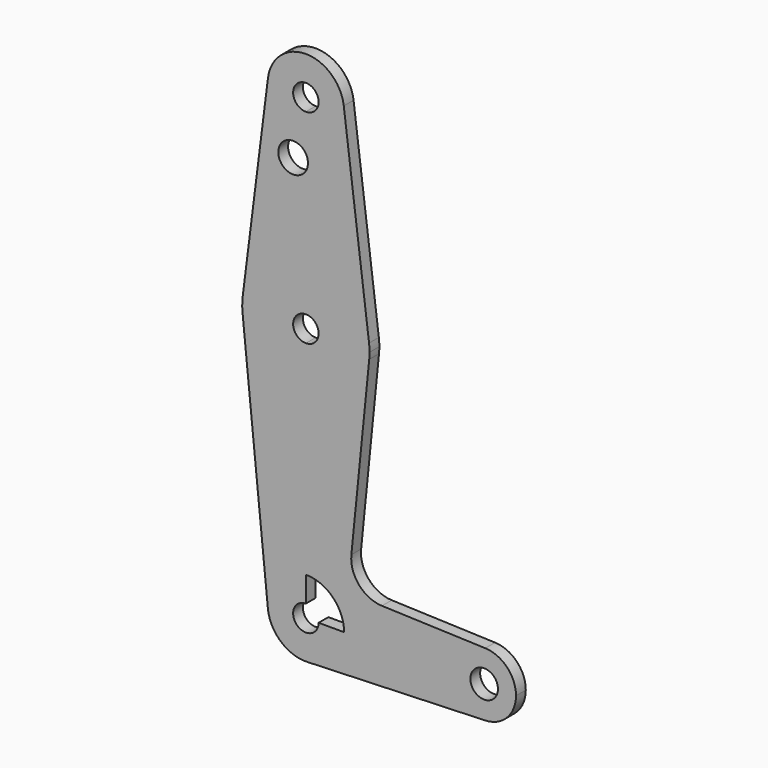
from build123d import *

# Parameters (mm, degrees)
F1_DEPTH = 3.048


with BuildPart() as f1:
    # F0 (on Front) → F1 (new body)
    with BuildSketch(Plane.XZ):
        with BuildLine():
            ThreePointArc((3.175, 0), (-2.245064, -2.245064), (0, 3.175))
            Line((0, 3.175), (0, 9.525))
            ThreePointArc((0, 9.525), (-7.063929, 6.389564), (-9.477255, -0.9525))
            ThreePointArc((-9.477255, -0.9525), (-6.262383, -7.17692), (0.340179, -9.518923))
            ThreePointArc((0.340179, -9.518923), (6.854408, -6.613827), (9.525, 0))
            Line((9.525, 0), (3.175, 0))
        make_face()
        with BuildLine():
            ThreePointArc((-9.477255, -0.9525), (-7.063929, 6.389564), (0, 9.525))
            Line((0, 9.525), (0, 47.625))
            ThreePointArc((0, 47.625), (-10.649274, 51.726785), (-15.795426, 61.9125))
            Line((-15.795426, 61.9125), (-9.477255, -0.9525))
        make_face()
        with BuildLine():
            Line((0, 47.625), (0, 9.525))
            ThreePointArc((0, 9.525), (6.735192, 6.735192), (9.525, 0))
            Line((9.525, 0), (36.5125, 0))
            ThreePointArc((36.5125, 0), (38.938477, 5.712007), (44.733482, 7.932436))
            Line((44.733482, 7.932436), (18.9676, 8.853234))
            ThreePointArc((18.9676, 8.853234), (13.2612, 11.571359), (11.341187, 17.593382))
            Line((11.341187, 17.593382), (15.795426, 61.9125))
            ThreePointArc((15.795426, 61.9125), (10.649274, 51.726785), (0, 47.625))
        make_face()
        with BuildLine():
            Line((36.5125, 0), (9.525, 0))
            ThreePointArc((9.525, 0), (6.854408, -6.613827), (0.340179, -9.518923))
            Line((0.340179, -9.518923), (44.733482, -7.932436))
            ThreePointArc((44.733482, -7.932436), (38.938477, -5.712007), (36.5125, 0))
        make_face()
        with BuildLine():
            ThreePointArc((-15.795426, 61.9125), (-10.649274, 51.726785), (0, 47.625))
            Line((0, 47.625), (0, 60.325))
            ThreePointArc((0, 60.325), (-3.175, 63.5), (0, 66.675))
            Line((0, 66.675), (0, 79.375))
            ThreePointArc((0, 79.375), (-10.500326, 75.40625), (-15.750488, 65.484375))
            ThreePointArc((-15.750488, 65.484375), (-15.873744, 63.699705), (-15.795426, 61.9125))
        make_face()
        with BuildLine():
            Line((0, 60.325), (0, 47.625))
            ThreePointArc((0, 47.625), (10.649274, 51.726785), (15.795426, 61.9125))
            ThreePointArc((15.795426, 61.9125), (15.855094, 62.705253), (15.875, 63.5))
            ThreePointArc((15.875, 63.5), (15.843841, 64.494139), (15.750488, 65.484375))
            ThreePointArc((15.750488, 65.484375), (10.500326, 75.40625), (0, 79.375))
            Line((0, 79.375), (0, 66.675))
            ThreePointArc((0, 66.675), (2.245064, 65.745064), (3.175, 63.5))
            ThreePointArc((3.175, 63.5), (2.245064, 61.254936), (0, 60.325))
        make_face()
        with BuildLine():
            ThreePointArc((47.889899, 0), (44.45, 3.439899), (41.010101, 0))
            ThreePointArc((41.010101, 0), (44.45, -3.439899), (47.889899, 0))
        make_face()
        with BuildLine():
            ThreePointArc((44.733482, 7.932436), (38.938477, 5.712007), (36.5125, 0))
            ThreePointArc((36.5125, 0), (38.938477, -5.712007), (44.733482, -7.932436))
            ThreePointArc((44.733482, -7.932436), (50.162007, -5.511523), (52.3875, 0))
            ThreePointArc((52.3875, 0), (50.162007, 5.511523), (44.733482, 7.932436))
        make_face()
        with BuildLine():
            ThreePointArc((47.889899, 0), (44.45, -3.439899), (41.010101, 0))
            ThreePointArc((41.010101, 0), (44.45, 3.439899), (47.889899, 0))
        make_face(mode=Mode.SUBTRACT)
        with BuildLine():
            Line((-9.450293, 115.490625), (-15.750488, 65.484375))
            ThreePointArc((-15.750488, 65.484375), (-10.500326, 75.40625), (0, 79.375))
            Line((0, 79.375), (0, 98.135231))
            ThreePointArc((0, 98.135231), (-6.869943, 100.0252), (0, 101.915169))
            Line((0, 101.915169), (0, 104.775))
            ThreePointArc((0, 104.775), (-7.14375, 107.999805), (-9.450293, 115.490625))
        make_face()
        with BuildLine():
            Line((0, 98.135231), (0, 79.375))
            ThreePointArc((0, 79.375), (10.500326, 75.40625), (15.750488, 65.484375))
            Line((15.750488, 65.484375), (9.450293, 115.490625))
            ThreePointArc((9.450293, 115.490625), (9.506305, 114.896483), (9.525, 114.3))
            ThreePointArc((9.525, 114.3), (6.735192, 107.564808), (0, 104.775))
            Line((0, 104.775), (0, 101.915169))
            ThreePointArc((0, 101.915169), (0.387587, 101.005292), (0.519943, 100.0252))
            ThreePointArc((0.519943, 100.0252), (0.387587, 99.045108), (0, 98.135231))
        make_face()
        with BuildLine():
            ThreePointArc((3.175, 114.3), (-2.245064, 116.545064), (0, 111.125))
            ThreePointArc((0, 111.125), (2.245064, 112.054936), (3.175, 114.3))
        make_face()
        with BuildLine():
            ThreePointArc((9.450293, 115.490625), (0, 123.825), (-9.450293, 115.490625))
            ThreePointArc((-9.450293, 115.490625), (-7.14375, 107.999805), (0, 104.775))
            ThreePointArc((0, 104.775), (6.735192, 107.564808), (9.525, 114.3))
            ThreePointArc((9.525, 114.3), (9.506305, 114.896483), (9.450293, 115.490625))
        make_face()
        with BuildLine():
            ThreePointArc((3.175, 114.3), (2.245064, 112.054936), (0, 111.125))
            ThreePointArc((0, 111.125), (-2.245064, 116.545064), (3.175, 114.3))
        make_face(mode=Mode.SUBTRACT)
    extrude(amount=F1_DEPTH)


solid = f1.part
